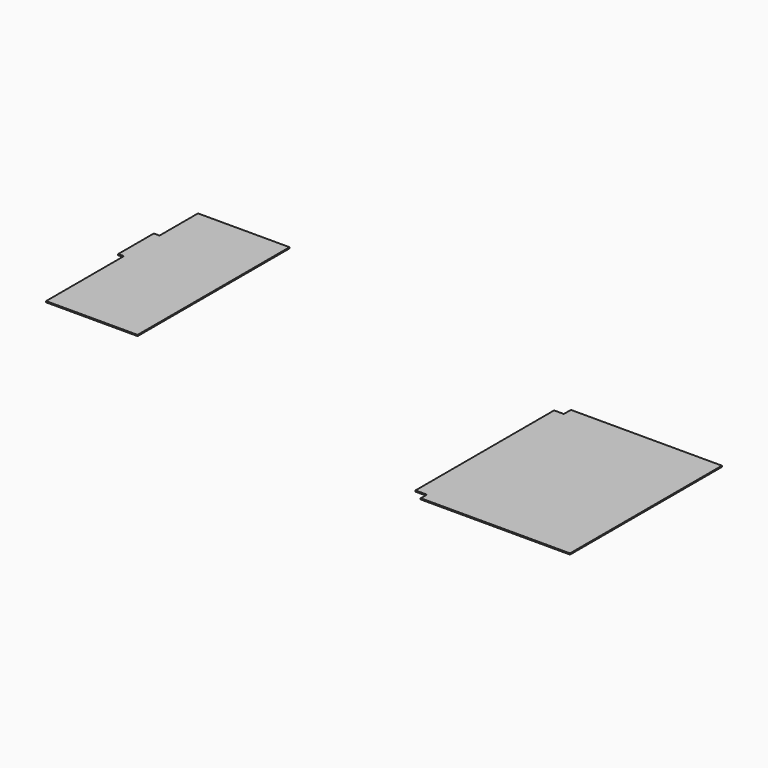
from build123d import *

# Parameters (mm, degrees)
F1_DEPTH = 25.4
F0_W     = 127
F0_H     = 990.6
F2_DEPTH = 25.4


with BuildPart() as f1:
    # F0 (on Top) → F1 (new body)
    with BuildSketch(Plane.XY):
        Polygon((-1852.91452, -880.295991), (-1852.91452, -1051.745991), (1461.331901, -1051.745991), (1461.331901, 1107.254009), (1461.331901, 2097.854009), (1461.331901, 3164.654009), (-1891.468099, 3164.654009), (-1891.468099, 2967.804009), (-2107.368099, 2967.804009), (-2107.368099, -880.295991), align=None)
    extrude(amount=F1_DEPTH)


with BuildPart() as f2:
    # F0 (on Top) → F2 (new body)
    with BuildSketch(Plane.XY):
        Polygon((-11550.122358, 4887.022448), (-11550.122358, 3820.222448), (-11550.122358, 2829.622448), (-11550.122358, 670.622448), (-9518.122358, 670.622448), (-9518.122358, 4887.022448), align=None)
        with Locations((-11613.622358, 3324.922448)):
            Rectangle(F0_W, F0_H)
    extrude(amount=F2_DEPTH)


solid = Compound([f1.part, f2.part])
